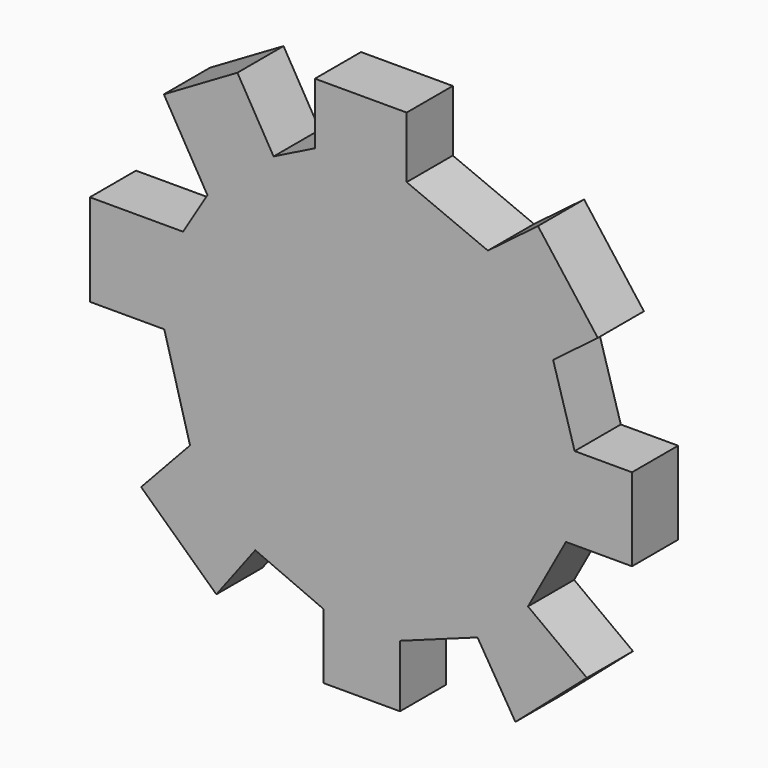
from build123d import *

# Parameters (mm, degrees)
F0_W     = 8.488312
F0_H     = 5.66724
F1_DEPTH = 5.334


with BuildPart() as f1:
    # F0 (on Front) → F1 (new body)
    with BuildSketch(Plane.XZ):
        Polygon((-22.070169, 29.685226), (-29.582963, 32.817851), (-38.071275, 32.817851), (-41.893598, 30.907729), (-45.240232, 36.638757), (-52.042923, 32.666325), (-48.012556, 25.764422), (-50.264879, 22.057725), (-58.888823, 22.057725), (-58.888823, 13.542761), (-52.003739, 13.542761), (-49.623422, 4.862938), (-54.148812, 0), (-47.189243, -6.476488), (-43.588375, -1.707138), (-37.271868, -4.447407), (-37.271868, -10.478238), (-30.200533, -10.478238), (-30.200533, -4.733184), (-23.027389, -2.12676), (-19.524977, -7.868402), (-12.913391, -2.12676), (-18.359281, 1.91268), (-14.849742, 8.312586), (-8.737652, 8.312586), (-8.737652, 15.968773), (-14.04323, 15.968773), (-16.035281, 22.753412), (-11.902239, 25.882636), (-17.437108, 33.193026), align=None)
        with Locations((-33.827119, 35.651471)):
            Rectangle(F0_W, F0_H)
    extrude(amount=F1_DEPTH)


solid = f1.part
